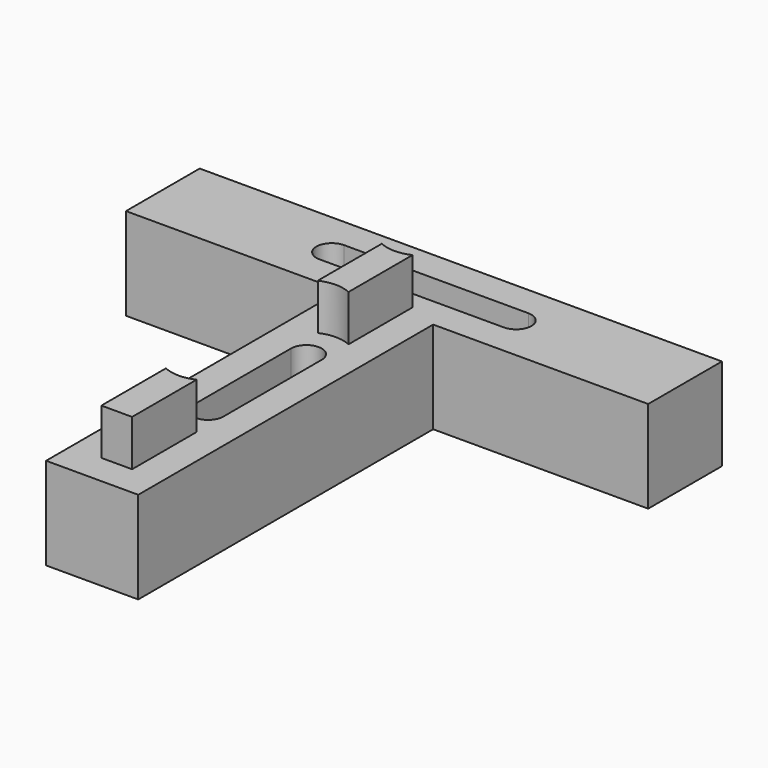
from build123d import *

# Parameters (mm, degrees)
F1_DEPTH = 19.05
F3_DEPTH = 9.525
F5_DEPTH = 28.576
F6_R     = 7.62
F7_DEPTH = 9.525
F9_DEPTH = 9.525


with BuildPart() as f1:
    # F0 (on Top) → F1 (new body)
    with BuildSketch(Plane.XY):
        Polygon((53.975, 9.525), (0, 9.525), (-53.975, 9.525), (-53.975, -9.525), (-9.525, -9.525), (-9.525, -85.725), (0, -85.725), (9.525, -85.725), (9.525, -9.525), (53.975, -9.525), align=None)
    extrude(amount=F1_DEPTH)

    # F2 (on face) → F3 (join)
    with BuildSketch(Plane.XY.offset(19.05)):
        Polygon((47.625, 3.175), (-47.625, 3.175), (-47.625, -3.175), (-3.175, -3.175), (-3.175, -79.375), (3.175, -79.375), (3.175, -3.175), (47.625, -3.175), align=None)
    extrude(amount=F3_DEPTH)

    # F4 (on face) → F5 (cut, through all)
    with BuildSketch(Plane.XY.offset(28.575)):
        with BuildLine():
            ThreePointArc((-3.175, -55.7836379401), (0, -58.9586379401), (3.175, -55.7836379401))
            Line((3.175, -55.7836379401), (3.175, -30.3836379401))
            ThreePointArc((3.175, -30.3836379401), (0, -27.2086379401), (-3.175, -30.3836379401))
            Line((-3.175, -30.3836379401), (-3.175, -55.7836379401))
        make_face()
        with BuildLine():
            ThreePointArc((-19.05, 3.175), (-22.225, 0), (-19.05, -3.175))
            Line((-19.05, -3.175), (0, -3.175))
            Line((0, -3.175), (19.05, -3.175))
            ThreePointArc((19.05, -3.175), (22.225, 0), (19.05, 3.175))
            Line((19.05, 3.175), (0, 3.175))
            Line((0, 3.175), (-19.05, 3.175))
        make_face()
    extrude(amount=-F5_DEPTH, mode=Mode.SUBTRACT)

    # F6 (on face) → F7 (cut)
    with BuildSketch(Plane.XY.offset(28.575)):
        with BuildLine():
            ThreePointArc((-25.9770321928, -3.175), (-17.4251285142, -7.4447426184), (-11.43, 0))
            ThreePointArc((-11.43, 0), (-17.4251285142, 7.4447426184), (-25.9770321928, 3.175))
            Line((-25.9770321928, 3.175), (-19.05, 3.175))
            ThreePointArc((-19.05, 3.175), (-22.225, 0), (-19.05, -3.175))
            Line((-19.05, -3.175), (-25.9770321928, -3.175))
        make_face()
        with Locations((19.05, 0)):
            Circle(F6_R)
        with Locations((0, -30.3836379401)):
            Circle(F6_R)
        with Locations((0, -55.7836379401)):
            Circle(F6_R)
        with BuildLine():
            Line((-19.05, 3.175), (-25.9770321928, 3.175))
            ThreePointArc((-25.9770321928, 3.175), (-26.67, 0), (-25.9770321928, -3.175))
            Line((-25.9770321928, -3.175), (-19.05, -3.175))
            ThreePointArc((-19.05, -3.175), (-22.225, 0), (-19.05, 3.175))
        make_face()
        Circle(F6_R)
    extrude(amount=-F7_DEPTH, mode=Mode.SUBTRACT)

    # F8 (on face) → F9 (cut, through all)
    with BuildSketch(Plane.XY.offset(28.575)):
        with BuildLine():
            Line((-25.9770321928, 3.175), (-47.625, 3.175))
            Line((-47.625, 3.175), (-47.625, -3.175))
            Line((-47.625, -3.175), (-25.9770321928, -3.175))
            ThreePointArc((-25.9770321928, -3.175), (-26.67, 0), (-25.9770321928, 3.175))
        make_face()
        with BuildLine():
            Line((47.625, 3.175), (25.9770321928, 3.175))
            ThreePointArc((25.9770321928, 3.175), (26.67, 0), (25.9770321928, -3.175))
            Line((25.9770321928, -3.175), (47.625, -3.175))
            Line((47.625, -3.175), (47.625, 3.175))
        make_face()
    extrude(amount=-F9_DEPTH, mode=Mode.SUBTRACT)


solid = f1.part
